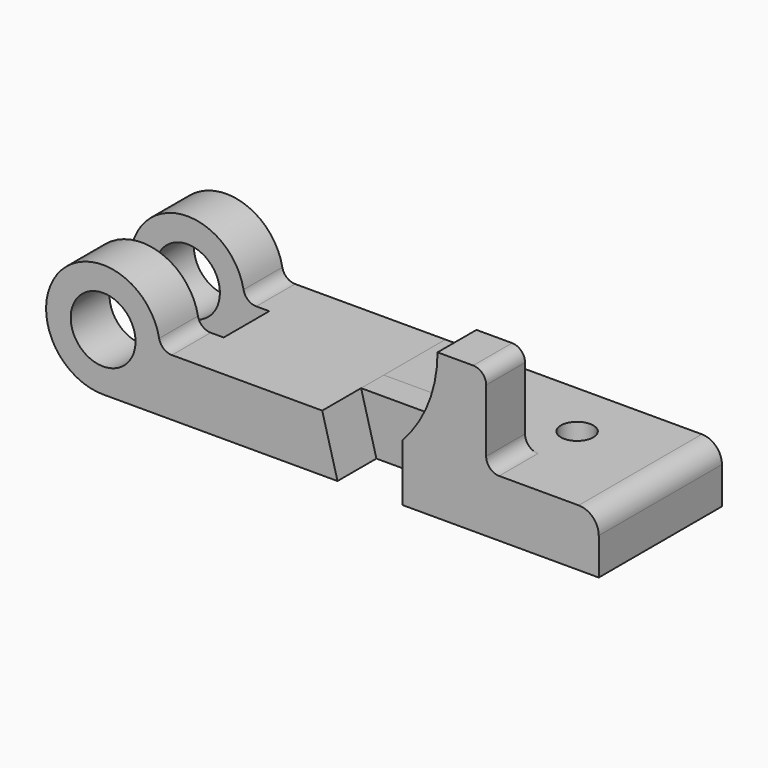
from build123d import *

# Parameters (mm, degrees)
F0_R          = 12.7
F1_DEPTH      = 30.1625
F2_DEPTH      = 30.1625
F3_DEPTH      = 11.1125
F4_DEPTH      = 30.1625
F5_DEPTH      = 11.1125
F6_W          = 54.389526296
F6_H          = 22.3266
F7_DEPTH      = 22.353
F7_DEPTH_BACK = 34.799
F6_R          = 6.35
F8_DEPTH      = 22.353


with BuildPart() as f1:
    # F0 (on Front) → F1 (new body, symmetric)
    with BuildSketch(Plane.XZ):
        with BuildLine():
            ThreePointArc((26.957526296, 0), (23.7150398244, 1.1694141767), (21.9653917967, 4.1392592593))
            ThreePointArc((21.9653917967, 4.1392592593), (-17.2065776226, 14.266940475), (0, -22.352))
            Line((0, -22.352), (91.8464, -22.352))
            Line((91.8464, -22.352), (85.852, 0))
            Line((85.852, 0), (26.957526296, 0))
        make_face()
        Circle(F0_R, mode=Mode.SUBTRACT)
    extrude(amount=F1_DEPTH, both=True)

    # F6 (on Top) → F7 (cut, two sides)
    with BuildSketch(Plane.XY) as f7_sk:
        with Locations((4.842763148, 0)):
            Rectangle(F6_W, F6_H)
    extrude(amount=-F7_DEPTH, mode=Mode.SUBTRACT)
    extrude(f7_sk.sketch, amount=F7_DEPTH_BACK, mode=Mode.SUBTRACT)


with BuildPart() as f1b:
    # F0 (on Front) → F1, piece 2 (new body, symmetric)
    with BuildSketch(Plane.XZ):
        with BuildLine():
            Line((117.2464, 0), (117.2464, -22.352))
            Line((117.2464, -22.352), (194.2084, -22.352))
            Line((194.2084, -22.352), (194.2084, -7.874))
            ThreePointArc((194.2084, -7.874), (191.9021587951, -2.3062412049), (186.3344, 0))
            Line((186.3344, 0), (155.1686, 0))
            Line((155.1686, 0), (117.2464, 0))
        make_face()
    extrude(amount=F1_DEPTH, both=True)

    # F0 (on Front) → F4 (join, through all)
    with BuildSketch(Plane.XZ):
        with BuildLine():
            ThreePointArc((131.0386, 34.798), (127.4644153616, 16.0823576341), (117.2464, 0))
            Line((117.2464, 0), (155.1686, 0))
            ThreePointArc((155.1686, 0), (151.5764975516, 1.4878975516), (150.0886, 5.08))
            Line((150.0886, 5.08), (150.0886, 29.718))
            ThreePointArc((150.0886, 29.718), (148.6007024484, 33.3101024484), (145.0086, 34.798))
            Line((145.0086, 34.798), (131.0386, 34.798))
        make_face()
    extrude(amount=F4_DEPTH)

    # F0 (on Front) → F5 (cut, through all)
    with BuildSketch(Plane.XZ):
        with BuildLine():
            ThreePointArc((131.0386, 34.798), (127.4644153616, 16.0823576341), (117.2464, 0))
            Line((117.2464, 0), (155.1686, 0))
            ThreePointArc((155.1686, 0), (151.5764975516, 1.4878975516), (150.0886, 5.08))
            Line((150.0886, 5.08), (150.0886, 29.718))
            ThreePointArc((150.0886, 29.718), (148.6007024484, 33.3101024484), (145.0086, 34.798))
            Line((145.0086, 34.798), (131.0386, 34.798))
        make_face()
    extrude(amount=F5_DEPTH, mode=Mode.SUBTRACT)

    # F6 (on Top) → F8 (cut, through all)
    with BuildSketch(Plane.XY):
        with Locations((155.3464, 7.8105)):
            Circle(F6_R)
    extrude(amount=-F8_DEPTH, mode=Mode.SUBTRACT)


with BuildPart() as f2:
    # F0 (on Front) → F2 (new body)
    with BuildSketch(Plane.XZ):
        Polygon((85.852, 0), (91.8464, -22.352), (117.2464, -22.352), (117.2464, 0), align=None)
    extrude(amount=-F2_DEPTH)


with BuildPart() as f3:
    # F0 (on Front) → F3 (new body)
    with BuildSketch(Plane.XZ):
        Polygon((85.852, 0), (91.8464, -22.352), (117.2464, -22.352), (117.2464, 0), align=None)
    extrude(amount=F3_DEPTH)


solid = Compound([f1.part, f1b.part, f2.part, f3.part])
